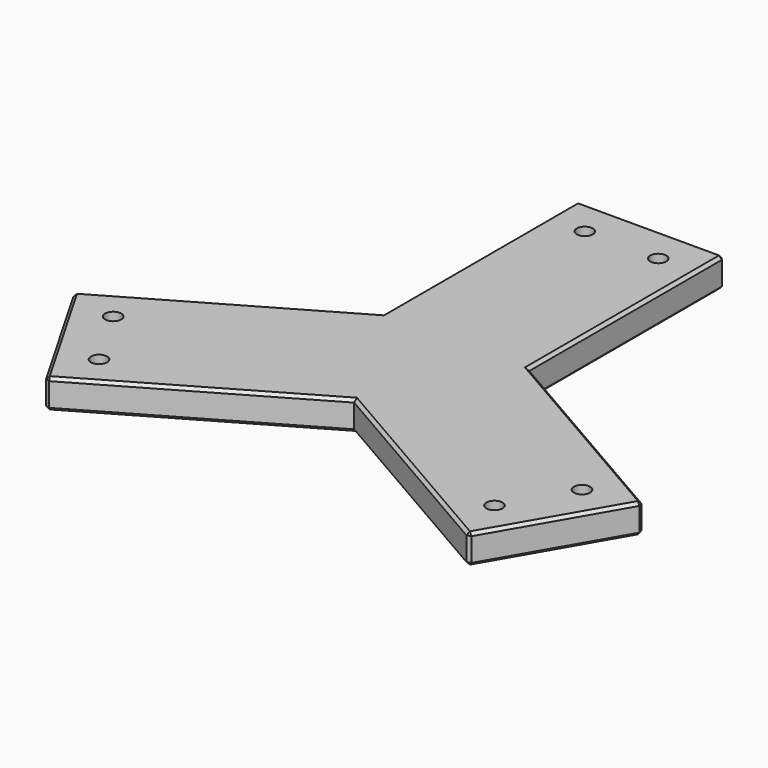
from build123d import *

# Parameters (mm, degrees)
F1_DEPTH       = 20
F2_SIZE        = 2
F4_D           = 11
F4_CBORE_D     = 17.25
F4_CBORE_DEPTH = 10


with BuildPart() as f1:
    # F0 (on Top) → F1 (new body)
    with BuildSketch(Plane.XY):
        Polygon((50, 195), (-50, 195), (-50, 28.8675134595), (-193.874953738, -54.1987298108), (-143.874953738, -140.8012701892), (0, -57.735026919), (143.874953738, -140.8012701892), (193.874953738, -54.1987298108), (50, 28.8675134595), align=None)
    extrude(amount=-F1_DEPTH)

    # F2
    f2_edges = [f1.edges().sort_by_distance(p)[0] for p in [
        (-71.937477, -99.268149, 0),
        (71.937477, -99.268149, 0),
        (168.874954, -97.5, 0),
        (121.937477, -12.665608, 0),
        (50, 111.933757, 0),
        (0, 195, 0),
        (-50, 111.933757, 0),
        (-121.937477, -12.665608, 0),
        (-168.874954, -97.5, 0),
        (-71.937477, -99.268149, -20),
        (71.937477, -99.268149, -20),
        (168.874954, -97.5, -20),
        (121.937477, -12.665608, -20),
        (50, 111.933757, -20),
        (0, 195, -20),
        (-50, 111.933757, -20),
        (-121.937477, -12.665608, -20),
        (-168.874954, -97.5, -20),
        (-143.874954, -140.80127, -10),
        (-193.874954, -54.19873, -10),
        (-50, 195, -10),
        (50, 195, -10),
        (193.874954, -54.19873, -10),
        (143.874954, -140.80127, -10),
    ]]
    chamfer(f2_edges, length=F2_SIZE)

    # F4 (through all)
    with Locations(Plane(origin=(0, 0, -20), x_dir=(1, 0, 0), z_dir=(0, 0, -1))):
        with Locations((159.7243186434, 63.3493649054), (134.7243186434, 106.6506350946), (-25, -170), (25, -170), (-134.7243186434, 106.6506350946), (-159.7243186434, 63.3493649054)):
            CounterBoreHole(F4_D / 2, F4_CBORE_D / 2, F4_CBORE_DEPTH)


with BuildPart() as f5_1:
    # F5: copy of F1
    add(f1.part)


solid = f1.part
